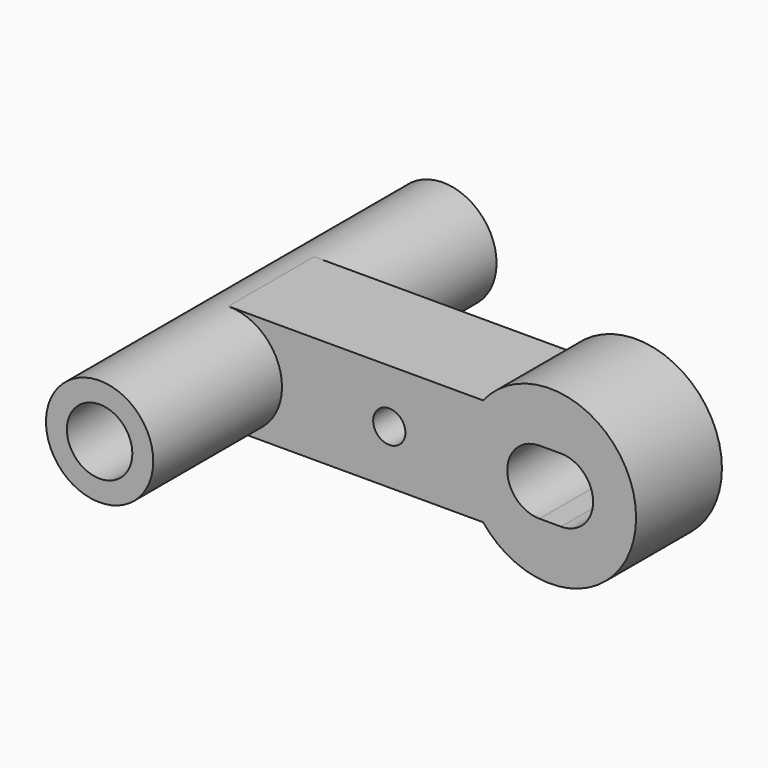
from build123d import *

# Parameters (mm, degrees)
SKETCH008_R     = 3.05
SKETCH008_R_2   = 1.5
PAD003_DEPTH    = 5
SKETCH009_R     = 5
SKETCH009_R_2   = 3.05
PAD004_DEPTH    = 20
SKETCH011_R     = 3
POCKET004_DEPTH = 10


with BuildPart() as part:
    # Sketch008 → Pad003 (new body, symmetric)
    with BuildSketch(Plane.XZ):
        with BuildLine():
            ThreePointArc((-15, 5), (-20, 0), (-15, -5))
            Line((-15, -5), (8.746454, -5))
            ThreePointArc((8.746454, -5), (23.006674, 0), (8.746454, 5))
            Line((-15, 5), (8.746454, 5))
        make_face()
        with Locations((-15, 0)):
            Circle(SKETCH008_R, mode=Mode.SUBTRACT)
        Circle(SKETCH008_R_2, mode=Mode.SUBTRACT)
        with BuildLine():
            ThreePointArc((14, 3), (11, 0), (14, -3))
            Line((14, -3), (16, -3))
            ThreePointArc((16, -3), (19, 0), (16, 3))
            Line((14, 3), (16, 3))
        make_face(mode=Mode.SUBTRACT)
    extrude(amount=PAD003_DEPTH, both=True)

    # Sketch009 → Pad004 (join, symmetric)
    with BuildSketch(Plane.XZ):
        with Locations((-15, 0)):
            Circle(SKETCH009_R)
        with Locations((-15, 0)):
            Circle(SKETCH009_R_2, mode=Mode.SUBTRACT)
    extrude(amount=PAD004_DEPTH, both=True)

    # Sketch011 → Pocket004 (cut)
    with BuildSketch(Plane.XZ):
        Circle(SKETCH011_R)
    extrude(amount=-POCKET004_DEPTH, mode=Mode.SUBTRACT)


with BuildPart() as part_1:
    # Body017 placement: moved
    add(part.part.moved(Location((0, 40.5, 0))))


solid = part_1.part
